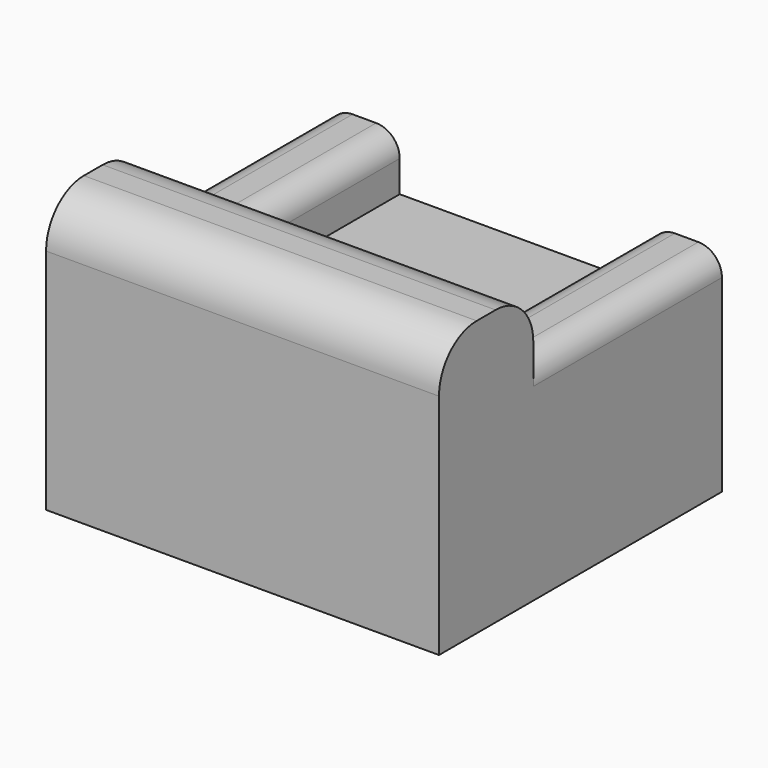
from build123d import *

# Parameters (mm, degrees)
BOX021003023_W     = 33.3333
BOX021003023_H     = 30
BOX021003023_DEPTH = 13.3333
BOX021003025_W     = 6
BOX021003025_H     = 30
BOX021003025_DEPTH = 18
BOX021003026_W     = 6
BOX021003026_H     = 30
BOX021003026_DEPTH = 18
BOX021003020_W     = 33.3333
BOX021003020_H     = 10
BOX021003020_DEPTH = 23.3333
FILLET001_1_R      = 4
FILLET001_2_R      = 2


with BuildPart() as obj1:
    # Box021003023 → Box021003023 (new body)
    with BuildSketch(Plane.XY):
        with Locations((16.66665, 15)):
            Rectangle(BOX021003023_W, BOX021003023_H)
    extrude(amount=BOX021003023_DEPTH)


with BuildPart() as obj2:
    # Box021003025 → Box021003025 (new body)
    with BuildSketch(Plane(origin=(27.3333, 0, 0), x_dir=(1, 0, 0), z_dir=(0, 0, 1))):
        with Locations((3, 15)):
            Rectangle(BOX021003025_W, BOX021003025_H)
    extrude(amount=BOX021003025_DEPTH)


with BuildPart() as obj3:
    # Box021003026 → Box021003026 (new body)
    with BuildSketch(Plane.XY):
        with Locations((3, 15)):
            Rectangle(BOX021003026_W, BOX021003026_H)
    extrude(amount=BOX021003026_DEPTH)


with BuildPart() as obj4:
    # Box021003020 → Box021003020 (new body)
    with BuildSketch(Plane.XY):
        with Locations((16.66665, 5)):
            Rectangle(BOX021003020_W, BOX021003020_H)
    extrude(amount=BOX021003020_DEPTH)

    # Fusion012: union obj1, obj2, obj3
    add(obj1.part)
    add(obj2.part)
    add(obj3.part)

    # Fillet001 1
    fillet001_1_edges = [obj4.edges().sort_by_distance(p)[0] for p in [
        (16.66665, 10, 23.3333),
        (16.66665, 0, 23.3333),
    ]]
    fillet(fillet001_1_edges, radius=FILLET001_1_R)

    # Fillet001 2
    fillet001_2_edges = [obj4.edges().sort_by_distance(p)[0] for p in [
        (0, 20, 18),
        (6, 20, 18),
        (27.3333, 20, 18),
        (33.3333, 20, 18),
    ]]
    fillet(fillet001_2_edges, radius=FILLET001_2_R)


with BuildPart() as obj4_1:
    # Fillet001 placement: moved
    add(obj4.part.moved(Location((0, -100, 0))))


solid = obj4_1.part
